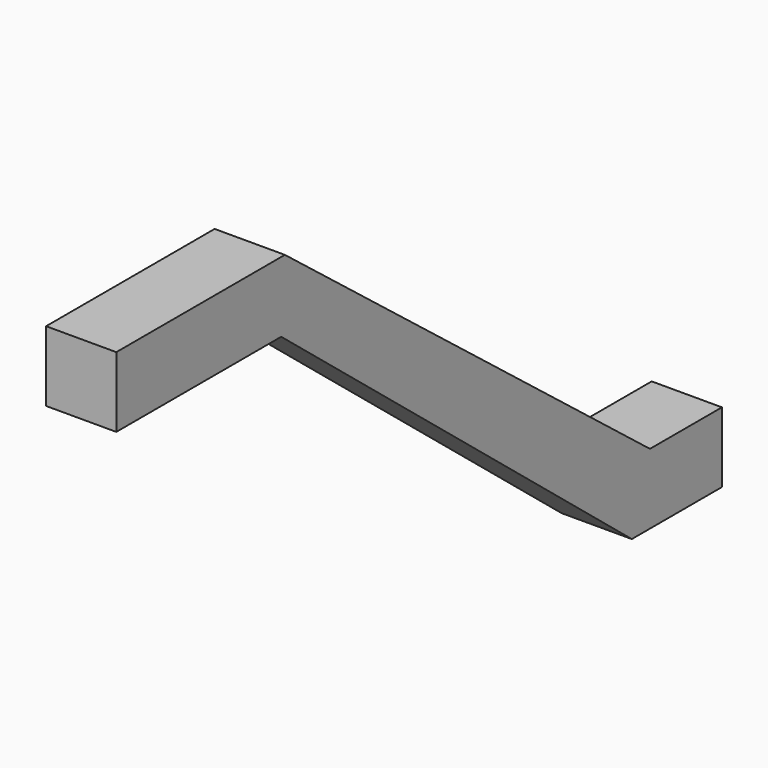
from build123d import *

# Parameters (mm, degrees)
F1_DEPTH = 10


with BuildPart() as f1:
    # F0 (on Right) → F1 (new body, symmetric)
    with BuildSketch(Plane.YZ):
        Polygon((-61.749952, 60.730349), (-77.786197, 60.730349), (-87.654768, 60.730349), (-63.05344, 40.730349), (-61.749952, 40.730349), align=None)
        Polygon((-63.05344, 40.730349), (-87.654768, 60.730349), (-121.749952, 60.730349), (-121.749952, 40.730349), align=None)
        Polygon((68.205532, -40.730349), (-61.749952, 60.730349), (-61.749952, 40.730349), (-63.05344, 40.730349), (61.749952, -60.730349), (87.654768, -60.730349), (93.822443, -60.730349), (93.822443, -40.730349), align=None)
    extrude(amount=F1_DEPTH, both=True)


solid = f1.part
